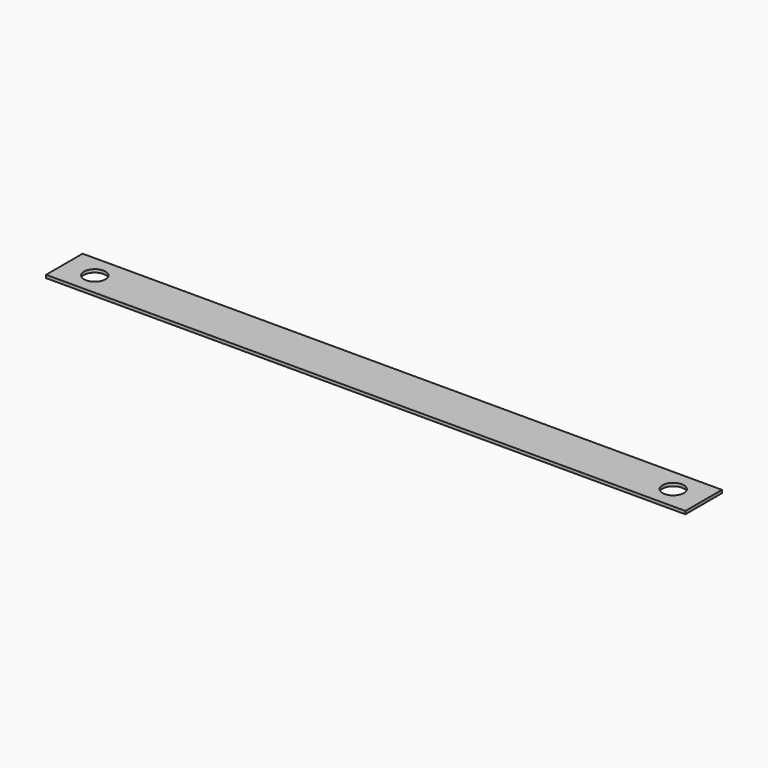
from build123d import *

# Parameters (mm, degrees)
F1_W     = 420
F1_H     = 30
F1_R     = 7
F2_DEPTH = 1


with BuildPart() as f2:
    # F1 (on face) → F2 (new body, symmetric)
    with BuildSketch(Plane.XY):
        Rectangle(F1_W, F1_H)
        with Locations((-190, 0)):
            Circle(F1_R, mode=Mode.SUBTRACT)
        with Locations((190, 0)):
            Circle(F1_R, mode=Mode.SUBTRACT)
    extrude(amount=F2_DEPTH, both=True)


solid = f2.part
